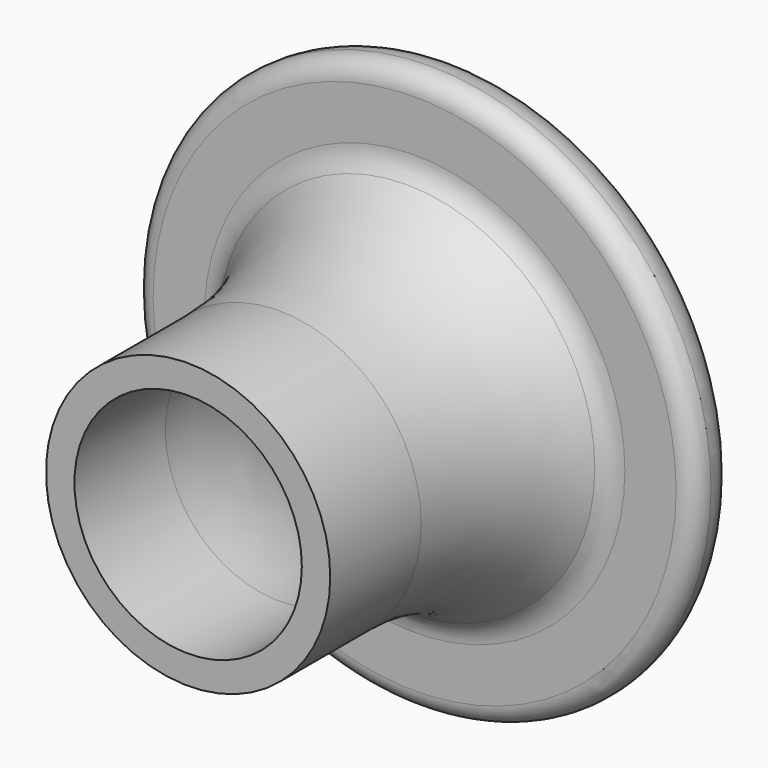
from build123d import *


with BuildPart() as f1:
    # F0 (on Top) → F1 (revolve)
    with BuildSketch(Plane.XY):
        with BuildLine():
            ThreePointArc((29.21, 18.923), (30.7366435406, 19.5553564594), (31.369, 21.082))
            ThreePointArc((31.369, 21.082), (30.1042870812, 24.1352870812), (27.051, 25.4))
            add(Edge.make_bspline(
                [(27.051, 25.4), (12.7, 25.4), (12.7, 0)],
                knots=[0, 0, 0, 1.5707963268, 1.5707963268, 1.5707963268], degree=2, weights=[1, 0.7071067812, 1]))
            Line((12.7, 0), (12.7, -12.7))
            Line((12.7, -12.7), (15.875, -12.7))
            Line((15.875, -12.7), (15.875, 0))
            add(Edge.make_bspline(
                [(21.0444702233, 17.778371929), (15.875, 11.5635524722), (15.875, 0)],
                knots=[0.5674091227, 0.5674091227, 0.5674091227, 1.5707963268, 1.5707963268, 1.5707963268], degree=2, weights=[1, 0.8767693476, 1]))
            ThreePointArc((21.0444702233, 17.778371929), (22.1374182752, 18.6226352703), (23.485415702, 18.923))
            Line((23.485415702, 18.923), (29.21, 18.923))
        make_face()
    revolve(axis=Axis((0, 35.1700206795, 0), (0, 1, 0)))


solid = f1.part
